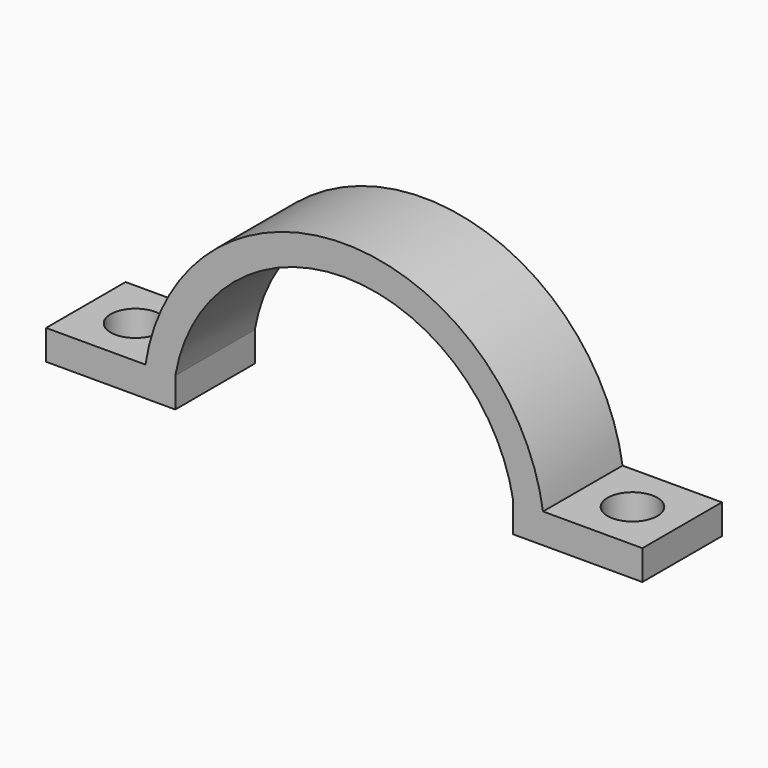
from build123d import *

# Parameters (mm, degrees)
PAD_DEPTH    = 10
SKETCH001_R  = 2.5
POCKET_DEPTH = 4


with BuildPart() as part:
    # Sketch → Pad (new body)
    with BuildSketch(Plane.XZ):
        with BuildLine():
            Line((-30, 0), (-17, 0))
            Line((-17, 3), (-17, 0))
            ThreePointArc((17, 3), (0, 17.262677), (-17, 3))
            Line((17, 3), (17, -3.8e-05))
            Line((17, -3.8e-05), (30, 0))
            Line((30, 3), (30, 0))
            Line((20, 3), (30, 3))
            ThreePointArc((20, 3), (0, 20.223748), (-20, 3))
            Line((-30, 3), (-20, 3))
            Line((-30, 0), (-30, 3))
        make_face()
    extrude(amount=PAD_DEPTH)

    # Sketch001 (on Face2 of Pad) → Pocket (cut)
    with BuildSketch(Plane(origin=(0, 0, 3), x_dir=(-1, 0, 0), z_dir=(0, 0, 1))):
        with Locations((-25, 5)):
            Circle(SKETCH001_R)
        with Locations((25, 5)):
            Circle(SKETCH001_R)
    extrude(amount=-POCKET_DEPTH, mode=Mode.SUBTRACT)


solid = part.part
